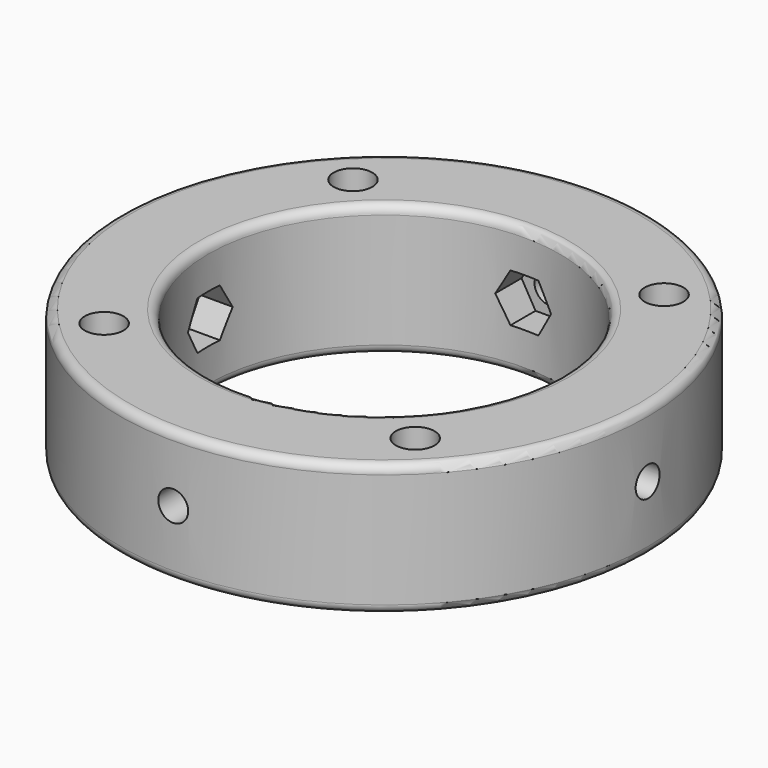
from build123d import *

# Parameters (mm, degrees)
PAD004_DEPTH = 23.5
PAD003_DEPTH = 23.5
SKETCH004_R  = 1.7
PAD002_DEPTH = 32.5
SKETCH003_R  = 1.7
PAD001_DEPTH = 32.5
SKETCH_R     = 30
SKETCH_R_2   = 20
PAD_DEPTH    = 7.5
SKETCH001_R  = 2.2
POCKET_DEPTH = 15.001
FILLET_R     = 1


with BuildPart() as pad_m3nut1:
    # Sketch006 → Pad004 (new body, symmetric)
    with BuildSketch(Plane.XZ):
        Polygon((1.587713, -2.75), (3.175426, 0), (1.587713, 2.75), (-1.587713, 2.75), (-3.175426, 0), (-1.587713, -2.75), align=None)
    extrude(amount=PAD004_DEPTH, both=True)


with BuildPart() as pad_m3nut:
    # Sketch005 → Pad003 (new body, symmetric)
    with BuildSketch(Plane.YZ):
        Polygon((3.175426, 0), (1.587713, 2.75), (-1.587713, 2.75), (-3.175426, 0), (-1.587713, -2.75), (1.587713, -2.75), align=None)
    extrude(amount=PAD003_DEPTH, both=True)


with BuildPart() as pad_m3_pocket1:
    # Sketch004 → Pad002 (new body, symmetric)
    with BuildSketch(Plane.YZ):
        Circle(SKETCH004_R)
    extrude(amount=PAD002_DEPTH, both=True)


with BuildPart() as pad_m3_pocket2:
    # Sketch003 → Pad001 (new body, symmetric)
    with BuildSketch(Plane.XZ):
        Circle(SKETCH003_R)
    extrude(amount=PAD001_DEPTH, both=True)


with BuildPart() as fillet_body:
    # Sketch → Pad (new body, symmetric)
    with BuildSketch(Plane.XY):
        Circle(SKETCH_R)
        Circle(SKETCH_R_2, mode=Mode.SUBTRACT)
    extrude(amount=PAD_DEPTH, both=True)

    # Sketch001 (on Face4 of Pad) → Pocket (cut, through all)
    with BuildSketch(Plane.XY.offset(7.5)):
        with Locations((-17.67767, 17.67767)):
            Circle(SKETCH001_R)
        with Locations((17.67767, 17.67767)):
            Circle(SKETCH001_R)
        with Locations((-17.67767, -17.67767)):
            Circle(SKETCH001_R)
        with Locations((17.67767, -17.67767)):
            Circle(SKETCH001_R)
    extrude(amount=-POCKET_DEPTH, mode=Mode.SUBTRACT)

    # Cut: cut Pad-M3-pocket2
    add(pad_m3_pocket2.part, mode=Mode.SUBTRACT)

    # Cut001: cut Pad-M3-pocket1
    add(pad_m3_pocket1.part, mode=Mode.SUBTRACT)

    # Cut002: cut Pad-M3Nut
    add(pad_m3nut.part, mode=Mode.SUBTRACT)

    # Cut003: cut Pad-M3Nut1
    add(pad_m3nut1.part, mode=Mode.SUBTRACT)

    # Fillet
    fillet_edges = [fillet_body.edges().sort_by_distance(p)[0] for p in [
        (-30, 0, 7.5),
        (-30, 0, -7.5),
        (-20, 0, 7.5),
        (-20, 0, -7.5),
    ]]
    fillet(fillet_edges, radius=FILLET_R)


solid = fillet_body.part
